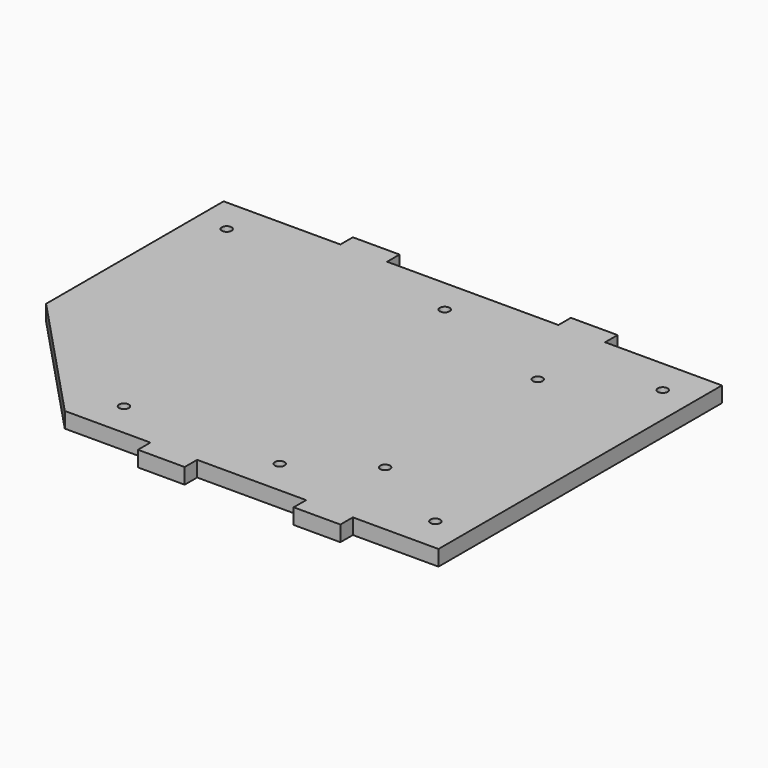
from build123d import *

# Parameters (mm, degrees)
F1_DEPTH = 12.7
F2_D     = 7.9375
F2_DEPTH = 17.4752
F2_TIP   = 2.3846655818


with BuildPart() as f1:
    # F0 (on Top) → F1 (new body)
    with BuildSketch(Plane.XY):
        Polygon((-127, -314.325), (-127, -25.4), (-222.25, -25.4), (-222.25, -12.7), (-260.35, -12.7), (-260.35, -25.4), (-400.05, -25.4), (-400.05, -12.7), (-438.15, -12.7), (-438.15, -25.4), (-533.4, -25.4), (-533.4, -206.375), (-431.8, -314.325), (-361.95, -314.325), (-361.95, -327.025), (-323.85, -327.025), (-323.85, -314.325), (-234.95, -314.325), (-234.95, -327.025), (-196.85, -327.025), (-196.85, -314.325), align=None)
    extrude(amount=F1_DEPTH)

    # F2
    with Locations(Plane(origin=(0, 0, 0), x_dir=(1, 0, 0), z_dir=(0, 0, -1))):
        with Locations((-406.4, 285.75), (-223.8375, 247.65), (-152.4, 285.75), (-279.4, 285.75), (-223.8375, 92.075), (-152.4, 53.975), (-330.2, 53.975), (-508, 53.975)):
            Hole(F2_D / 2, depth=F2_DEPTH)
            with Locations((0, 0, -(F2_DEPTH + F2_TIP / 2))):  # 118° drill point
                Cone(0, F2_D / 2, F2_TIP, mode=Mode.SUBTRACT)


solid = f1.part
